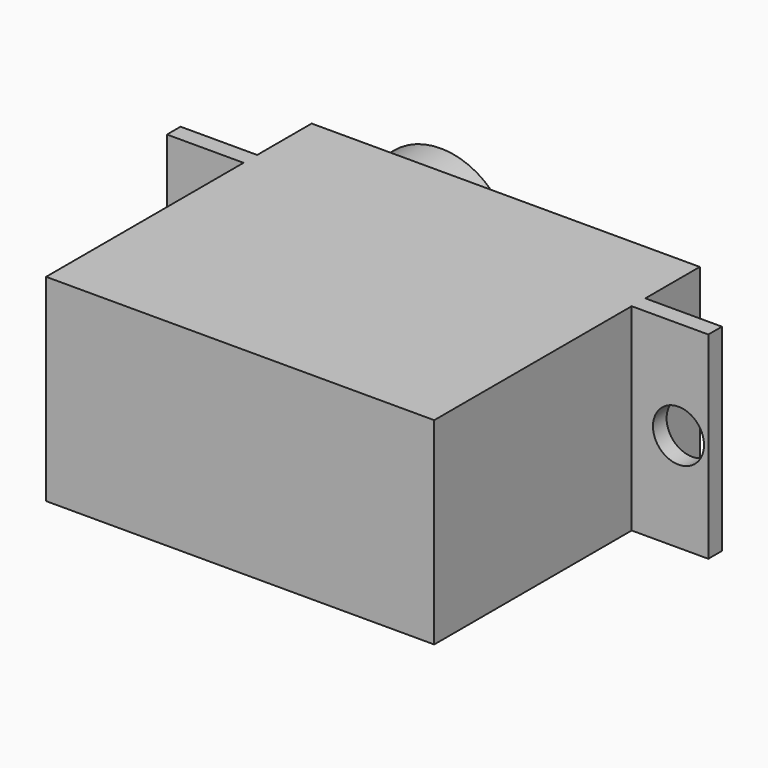
from build123d import *

# Parameters (mm, degrees)
F0_W     = 4.5
F0_H     = 1
F1_DEPTH = 5.8
F2_R     = 4.25
F3_DEPTH = 4.1
F5_D     = 3


with BuildPart() as f1:
    # F0 (on Top) → F1 (new body, symmetric)
    with BuildSketch(Plane.XY):
        Polygon((11.4, 0), (-11.4, 0), (-11.4, -4), (-11.4, -5), (-11.4, -19.5), (11.4, -19.5), (11.4, -5), (11.4, -4), align=None)
        with Locations((-13.65, -4.5)):
            Rectangle(F0_W, F0_H)
        with Locations((13.65, -4.5)):
            Rectangle(F0_W, F0_H)
    extrude(amount=F1_DEPTH, both=True)

    # F2 (on face) → F3 (join)
    with BuildSketch(Plane(origin=(0, 0, 0), x_dir=(-1, 0, 0), z_dir=(0, 1, 0))):
        with Locations((7.1, 0)):
            Circle(F2_R)
    extrude(amount=F3_DEPTH)

    # F5 (through all)
    with Locations(Plane(origin=(0, 0, 0), x_dir=(1, 0, 0), z_dir=(0, 1, 0))):
        with Locations((14.15, 0), (-14.15, 0)):
            Hole(F5_D / 2)


solid = f1.part
